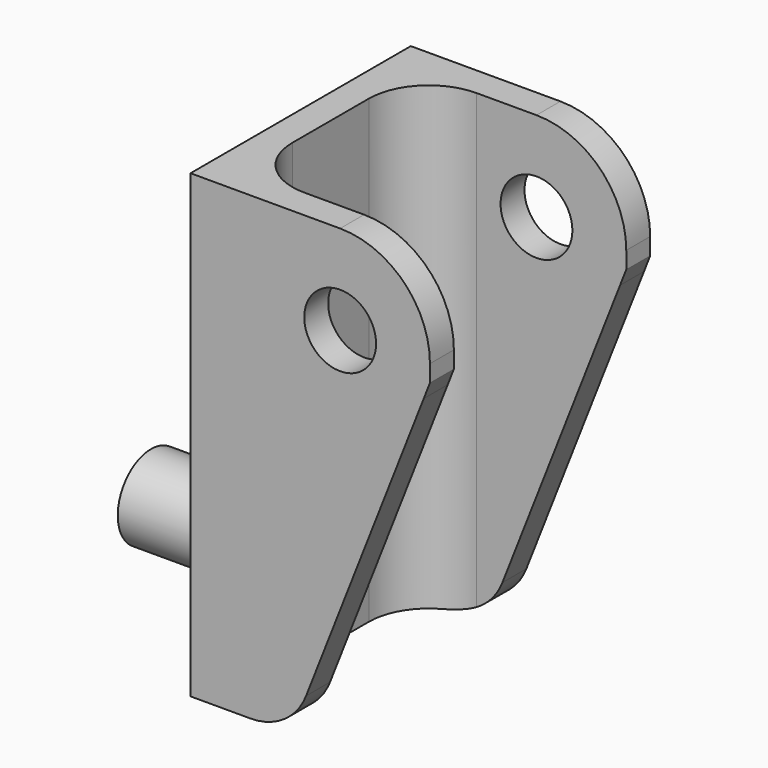
from build123d import *

# Parameters (mm, degrees)
F0_R     = 6.95
F1_DEPTH = 25
F2_W     = 46
F2_H     = 76.95
F2_R     = 6.95
F3_DEPTH = 40
F5_DEPTH = 76.951
F6_R     = 6
F7_DEPTH = 46.001


with BuildPart() as f1:
    # F0 (on Right) → F1 (new body)
    with BuildSketch(Plane.YZ):
        Circle(F0_R)
    extrude(amount=-F1_DEPTH)

    # F2 (on Right) → F3 (join)
    with BuildSketch(Plane.YZ):
        with Locations((0, 26.525)):
            Rectangle(F2_W, F2_H)
        Circle(F2_R, mode=Mode.SUBTRACT)
        Circle(F2_R)
    extrude(amount=F3_DEPTH)

    # F4 (on face) → F5 (cut, through all)
    with BuildSketch(Plane.XY.offset(65)):
        with BuildLine():
            Line((40, -18), (40, 18))
            Line((40, 18), (15, 18))
            ThreePointArc((15, 18), (7.928932, 15.071068), (5, 8))
            Line((5, 8), (5, -8))
            ThreePointArc((5, -8), (7.928932, -15.071068), (15, -18))
            Line((15, -18), (40, -18))
        make_face()
    extrude(amount=-F5_DEPTH, mode=Mode.SUBTRACT)

    # F6 (on face) → F7 (cut, through all)
    with BuildSketch(Plane.XZ.offset(23)):
        with BuildLine():
            Line((40, 50), (40, 65))
            Line((40, 65), (25, 65))
            ThreePointArc((25, 65), (35.606602, 60.606602), (40, 50))
        make_face()
        with BuildLine():
            Line((40, -11.95), (40, 47.164207))
            Line((40, 47.164207), (38.964771, 44.524128))
            Line((38.964771, 44.524128), (19.309847, -5.600581))
            ThreePointArc((19.309847, -5.600581), (15.634456, -10.211532), (10, -11.95))
            Line((10, -11.95), (40, -11.95))
        make_face()
        with Locations((25, 50)):
            Circle(F6_R)
    extrude(amount=-F7_DEPTH, mode=Mode.SUBTRACT)


solid = f1.part
